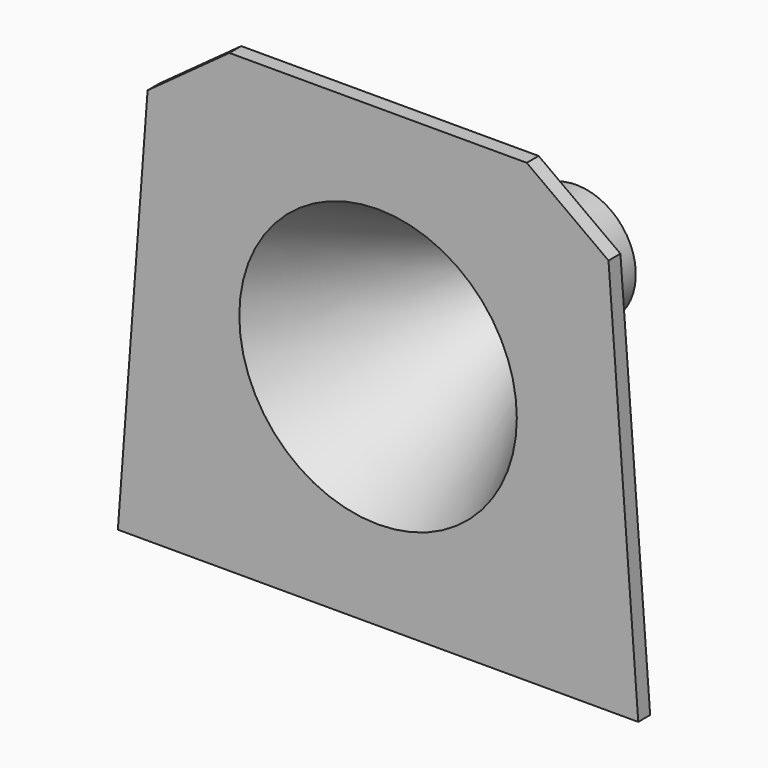
from build123d import *

# Parameters (mm, degrees)
F0_R     = 1
F1_DEPTH = 3
F5_START = -42
F5_DEPTH = 9


with BuildPart() as f1:
    # F0 (on Front) → F1 (new body)
    with BuildSketch(Plane.XZ):
        Polygon((-52.5, -46), (52.5, -46), (46.5, 34), (30, 46), (-30, 46), (-46.5, 34), align=None)
        with Locations((-7, -4.2)):
            Circle(F0_R, mode=Mode.SUBTRACT)
        with BuildLine():
            ThreePointArc((8, -4.2), (7, -5.2), (6, -4.2))
            ThreePointArc((6, -4.2), (7, -3.2), (8, -4.2))
        make_face(mode=Mode.SUBTRACT)
    extrude(amount=-F1_DEPTH)

    # F2 (on Top) → F3 (revolve)
    with BuildSketch(Plane.XY):
        Polygon((-28, 0), (-1.999999598, 50.0012680348), (-4.9999989951, 50.0031700871), (-12, 36.5407767282), (-31, 0), align=None)
        Polygon((-12, 36.5407767282), (-4.9999989951, 50.0031700871), (-12, 50.0076082106), align=None)
    revolve(axis=Axis((0, 25, 0), (0, 1, 0)))

    # F2 (on Top) → F4 (revolve, cut)
    with BuildSketch(Plane.XY):
        Polygon((-20, 0), (-2, 0), (-1.999999598, 50.0012680348), (-28, 0), (-22, 0), align=None)
        Polygon((-2, 0), (0, 0), (0, 50), (-1.999999598, 50.0012680348), align=None)
    revolve(axis=Axis((0, 50.0012680348, 0), (0, 1, 0)), mode=Mode.SUBTRACT)

    # F0 (on Front) → F5 (cut)
    with BuildSketch(Plane.XZ.offset(F5_START)):
        with BuildLine():
            ThreePointArc((8, -4.2), (7, -3.2), (6, -4.2))
            ThreePointArc((6, -4.2), (7, -5.2), (8, -4.2))
        make_face()
        with Locations((-7, -4.2)):
            Circle(F0_R)
    extrude(amount=-F5_DEPTH, mode=Mode.SUBTRACT)


solid = f1.part
